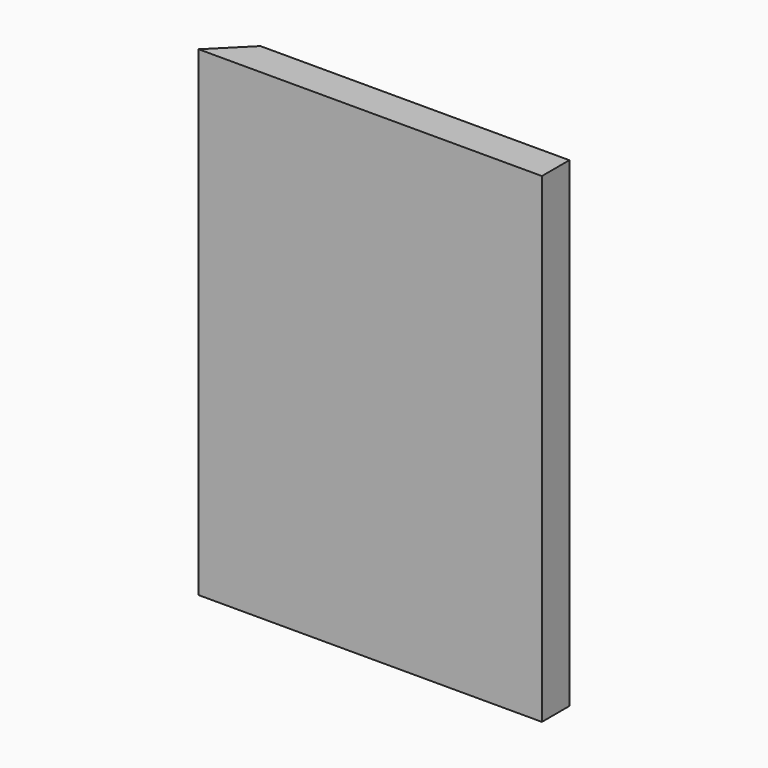
from build123d import *

# Parameters (mm, degrees)
F0_W     = 127
F0_H     = 177.8
F1_DEPTH = 12.7
F3_DEPTH = 177.801


with BuildPart() as f1:
    # F0 (on Front) → F1 (new body)
    with BuildSketch(Plane.XZ):
        Rectangle(F0_W, F0_H)
    extrude(amount=F1_DEPTH)

    # F2 (on face) → F3 (cut, through all)
    with BuildSketch(Plane.XY.offset(88.9)):
        Polygon((-63.5, -12.7), (-50.8, 0), (-63.5, 0), align=None)
    extrude(amount=-F3_DEPTH, mode=Mode.SUBTRACT)


solid = f1.part
